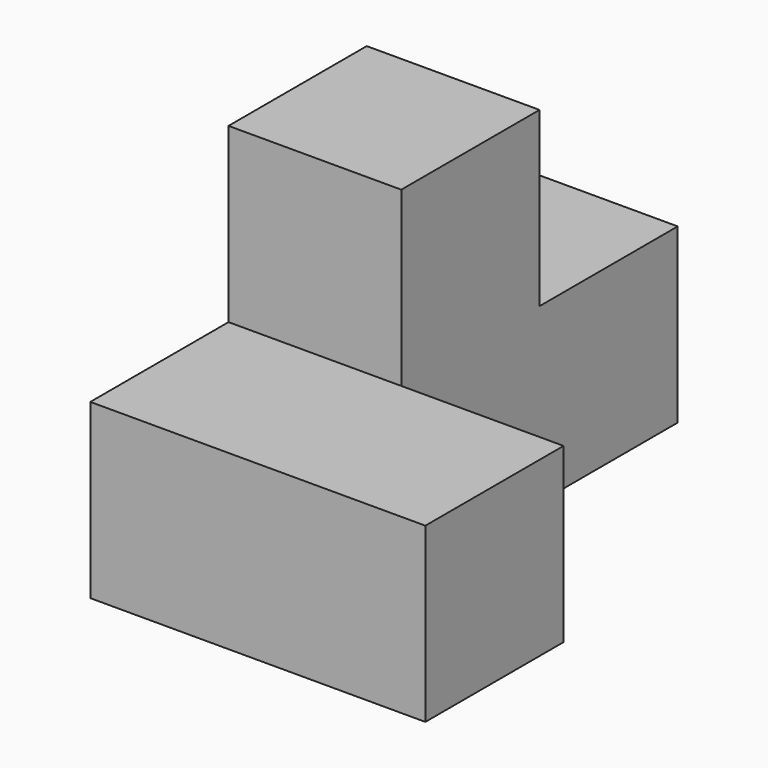
from build123d import *

# Parameters (mm, degrees)
F1_DEPTH = 19.05
F0_W     = 19.05
F0_H     = 19.05
F2_DEPTH = 38.1
F3_DEPTH = 19.05


with BuildPart() as f1:
    # F0 (on Top) → F1 (new body)
    with BuildSketch(Plane.XY):
        Polygon((17.895463, -38.1), (0, -38.1), (-19.05, -38.1), (-19.05, -57.15), (17.895463, -57.15), align=None)
    extrude(amount=F1_DEPTH)

    # F0 (on Top) → F2 (join)
    with BuildSketch(Plane.XY):
        with Locations((-9.525, -28.575)):
            Rectangle(F0_W, F0_H)
    extrude(amount=F2_DEPTH)

    # F0 (on Top) → F3 (join)
    with BuildSketch(Plane.XY):
        with Locations((-9.525, -9.525)):
            Rectangle(F0_W, F0_H)
    extrude(amount=F3_DEPTH)


solid = f1.part
